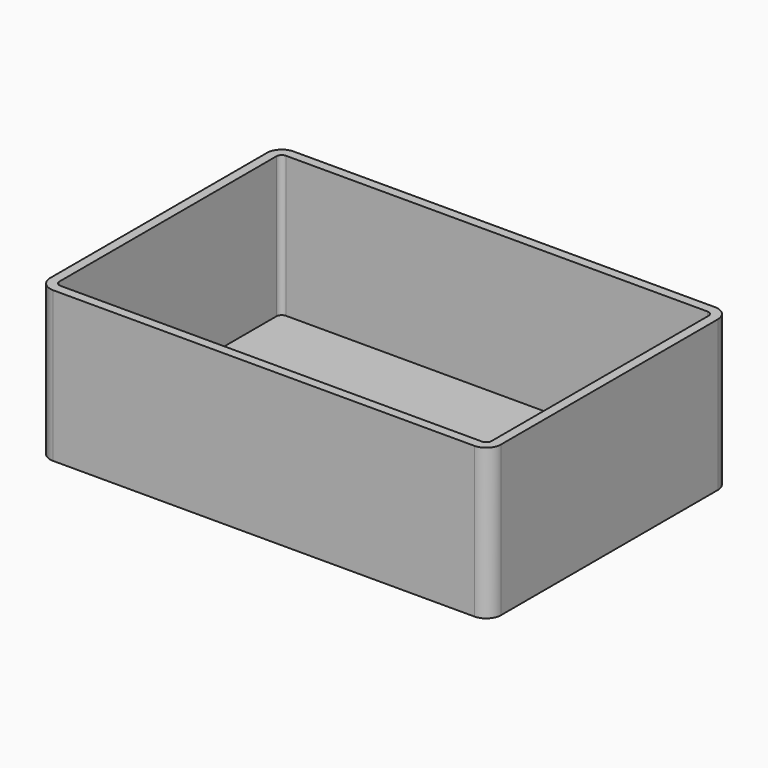
from build123d import *

# Parameters (mm, degrees)
F1_DEPTH = 50.8
F2_R     = 5
F3_T     = -3.175


with BuildPart() as f1:
    # F0 (on Top) → F1 (new body)
    with BuildSketch(Plane.XY):
        Polygon((73.068974, -48.712649), (-79.331026, 52.887351), (-79.331026, -48.712649), align=None)
        Polygon((73.068974, 52.887351), (-79.331026, 52.887351), (73.068974, -48.712649), align=None)
    extrude(amount=F1_DEPTH)

    # F2
    f2_edges = [f1.edges().sort_by_distance(p)[0] for p in [
        (-79.331026, -48.712649, 25.4),
        (73.068974, -48.712649, 25.4),
        (73.068974, 52.887351, 25.4),
        (-79.331026, 52.887351, 25.4),
    ]]
    fillet(f2_edges, radius=F2_R)

    # F3
    f3_openings = [f1.faces().sort_by_distance(p)[0] for p in [
        (-3.131026, 2.087351, 50.8),
    ]]
    offset(amount=F3_T, openings=f3_openings)


solid = f1.part
